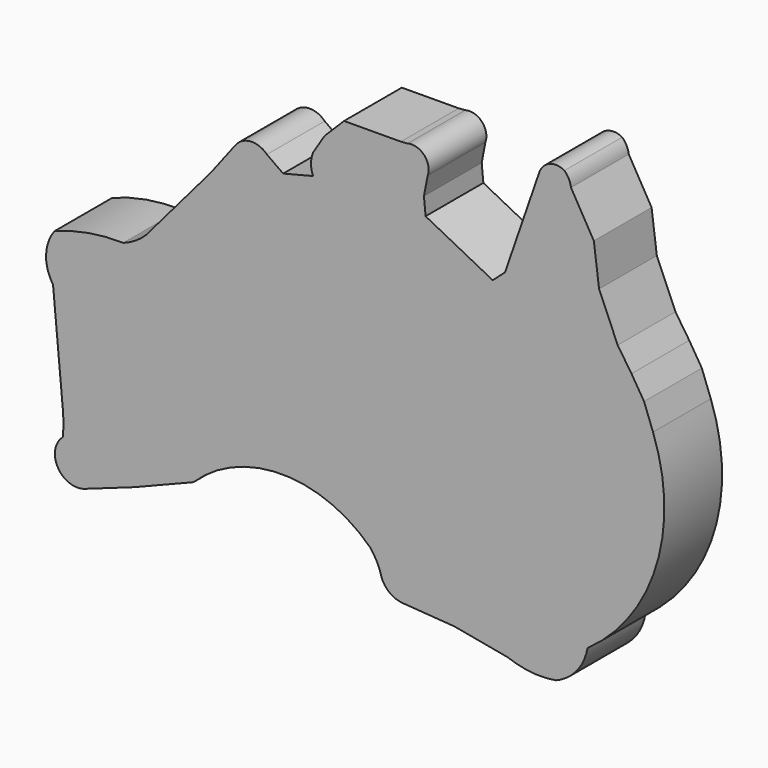
from build123d import *

# Parameters (mm, degrees)
F1_DEPTH = 10.16


with BuildPart() as f1:
    # F0 (on Front) → F1 (new body)
    with BuildSketch(Plane.XZ):
        with BuildLine():
            ThreePointArc((55.93181, 72.884463), (53.846105, 73.029492), (52.393261, 71.526013))
            Line((52.393261, 71.526013), (47.569767, 57.54873))
            Line((47.569767, 57.54873), (45.835998, 56.014921))
            Line((45.835998, 56.014921), (36.392059, 60.869324))
            Line((36.392059, 60.869324), (36.160212, 63.291341))
            Line((36.160212, 63.291341), (36.682334, 65.993358))
            ThreePointArc((36.682334, 65.993358), (36.188279, 68.380847), (33.844869, 69.053621))
            Line((33.844869, 69.053621), (32.92169, 68.980245))
            Line((32.92169, 68.980245), (24.91645, 68.939961))
            Line((24.91645, 68.939961), (22.168769, 66.192284))
            Line((22.168769, 66.192284), (20.552484, 63.606225))
            ThreePointArc((20.552484, 63.606225), (20.265697, 62.151572), (20.552484, 60.696919))
            Line((20.552484, 60.696919), (16.351366, 59.636116))
            Line((16.351366, 59.636116), (14.066456, 61.255198))
            ThreePointArc((14.066456, 61.255198), (11.765508, 62.127558), (9.607895, 60.944309))
            Line((9.607895, 60.944309), (6.144268, 56.412172))
            Line((6.144268, 56.412172), (-2.926928, 45.772027))
            ThreePointArc((-2.926928, 45.772027), (-4.425317, 44.572403), (-6.152405, 43.734886))
            ThreePointArc((-6.152405, 43.734886), (-11.07456, 43.364537), (-15.828835, 42.037267))
            ThreePointArc((-15.828835, 42.037267), (-17.013516, 38.712186), (-16.032312, 35.321482))
            Line((-16.032312, 35.321482), (-14.654515, 20.349409))
            ThreePointArc((-14.654515, 20.349409), (-14.575268, 18.623459), (-14.654515, 16.897509))
            ThreePointArc((-14.654515, 16.897509), (-15.357855, 12.909018), (-11.559602, 11.50331))
            Line((-11.559602, 11.50331), (-4.592096, 13.975651))
            Line((-4.592096, 13.975651), (3.72396, 17.298855))
            ThreePointArc((3.72396, 17.298855), (16.163557, 22.340401), (28.603153, 17.298855))
            ThreePointArc((28.603153, 17.298855), (29.586629, 15.763506), (30.217894, 14.052944))
            ThreePointArc((30.217894, 14.052944), (31.367955, 12.55529), (33.139409, 11.901411))
            Line((33.139409, 11.901411), (40.465281, 11.369779))
            Line((40.465281, 11.369779), (47.927, 9.99399))
            ThreePointArc((47.927, 9.99399), (51.284769, 9.210655), (54.730512, 9.333455))
            ThreePointArc((54.730512, 9.333455), (57.666917, 11.484587), (59.181646, 14.794487))
            ThreePointArc((59.181646, 14.794487), (68.849344, 28.096388), (68.39446, 44.534091))
            Line((68.39446, 44.534091), (67.137132, 47.918128))
            Line((67.137132, 47.918128), (65.364443, 50.788861))
            Line((65.364443, 50.788861), (63.423038, 53.690203))
            Line((63.423038, 53.690203), (60.803108, 59.80337))
            Line((60.803108, 59.80337), (60.066659, 65.519266))
            Line((60.066659, 65.519266), (56.853763, 71.078028))
            ThreePointArc((56.853763, 71.078028), (56.548413, 72.060672), (55.93181, 72.884463))
        make_face()
    extrude(amount=F1_DEPTH)


solid = f1.part
